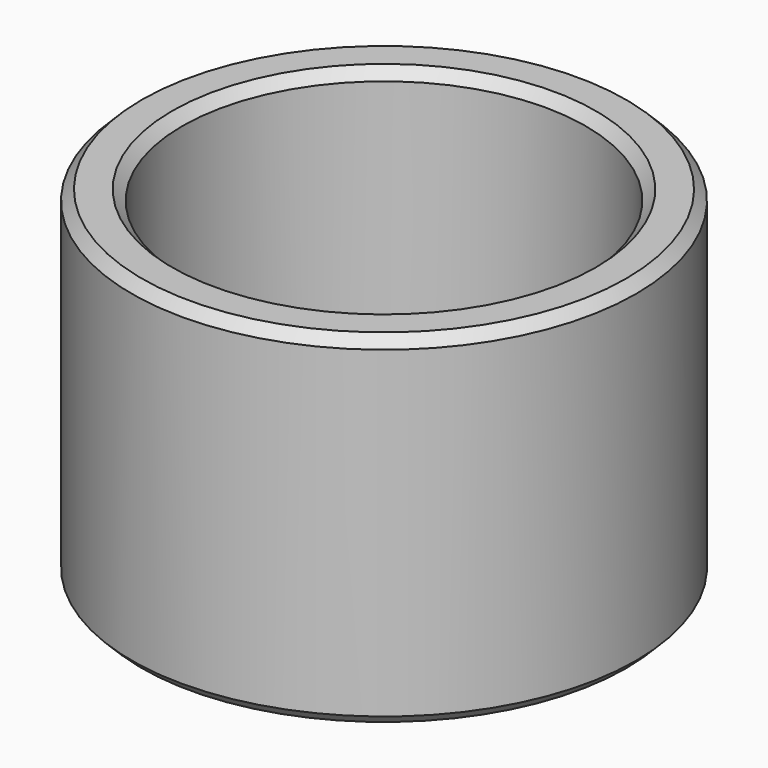
from build123d import *

# Parameters (mm, degrees)
F0_R     = 5
F0_R_2   = 4
F1_DEPTH = 6.8
F2_SIZE  = 0.2
F3_SIZE  = 0.2
F4_SIZE  = 0.2


with BuildPart() as f1:
    # F0 (on Top) → F1 (new body)
    with BuildSketch(Plane.XY):
        Circle(F0_R)
        Circle(F0_R_2, mode=Mode.SUBTRACT)
    extrude(amount=F1_DEPTH)

    # F2
    f2_edges = [f1.edges().sort_by_distance(p)[0] for p in [
        (-4, 0, 6.8),
    ]]
    chamfer(f2_edges, length=F2_SIZE)

    # F3
    f3_edges = [f1.edges().sort_by_distance(p)[0] for p in [
        (-5, 0, 6.8),
    ]]
    chamfer(f3_edges, length=F3_SIZE)

    # F4
    f4_edges = [f1.edges().sort_by_distance(p)[0] for p in [
        (-5, 0, 0),
        (-4, 0, 0),
    ]]
    chamfer(f4_edges, length=F4_SIZE)


solid = f1.part
